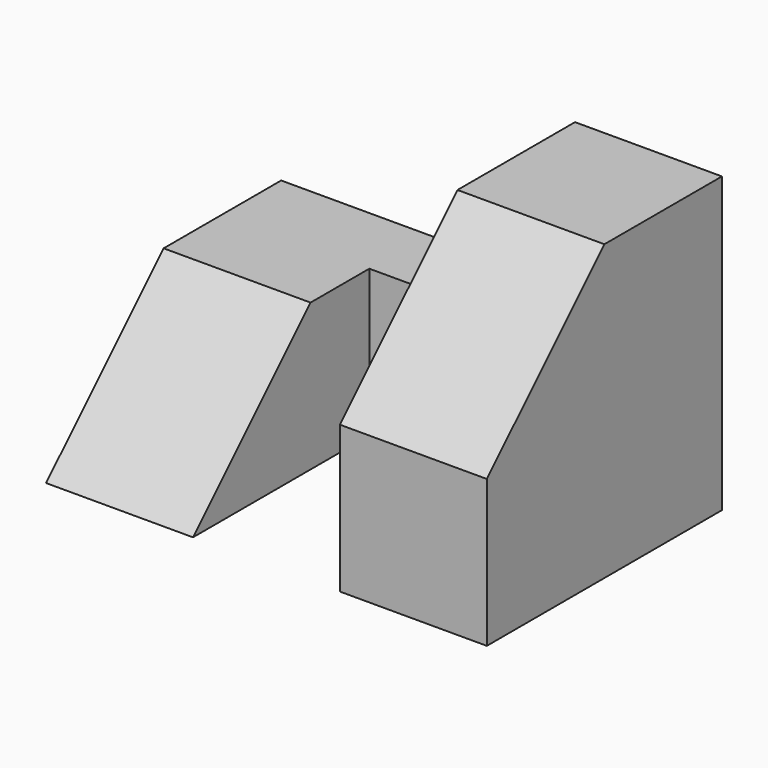
from build123d import *

# Parameters (mm, degrees)
F0_W     = 25.4
F0_H     = 12.7
F1_DEPTH = 12.7
F2_W     = 12.7
F2_H     = 25.4
F3_DEPTH = 12.7
F5_DEPTH = 12.7
F6_W     = 12.7
F6_H     = 19.05
F7_DEPTH = 25.4
F9_DEPTH = 40.65572


with BuildPart() as f1:
    # F0 (on Front) → F1 (new body, symmetric)
    with BuildSketch(Plane.XZ):
        with Locations((12.7, 6.35)):
            Rectangle(F0_W, F0_H)
    extrude(amount=F1_DEPTH, both=True)

    # F2 (on Front) → F3 (join, symmetric)
    with BuildSketch(Plane.XZ):
        with Locations((31.75, 12.7)):
            Rectangle(F2_W, F2_H)
    extrude(amount=F3_DEPTH, both=True)

    # F4 (on Right) → F5 (cut)
    with BuildSketch(Plane.YZ):
        Polygon((-12.7, 0), (0, 12.7), (-12.7, 12.7), align=None)
    extrude(amount=F5_DEPTH, mode=Mode.SUBTRACT)

    # F6 (on Top) → F7 (cut)
    with BuildSketch(Plane.XY):
        with Locations((19.05, -3.175)):
            Rectangle(F6_W, F6_H)
    extrude(amount=F7_DEPTH, mode=Mode.SUBTRACT)

    # F8 (on Right) → F9 (cut)
    with BuildSketch(Plane.YZ):
        Polygon((-12.7, 12.7), (0, 25.4), (-12.7, 25.4), align=None)
    extrude(amount=F9_DEPTH, mode=Mode.SUBTRACT)


solid = f1.part
